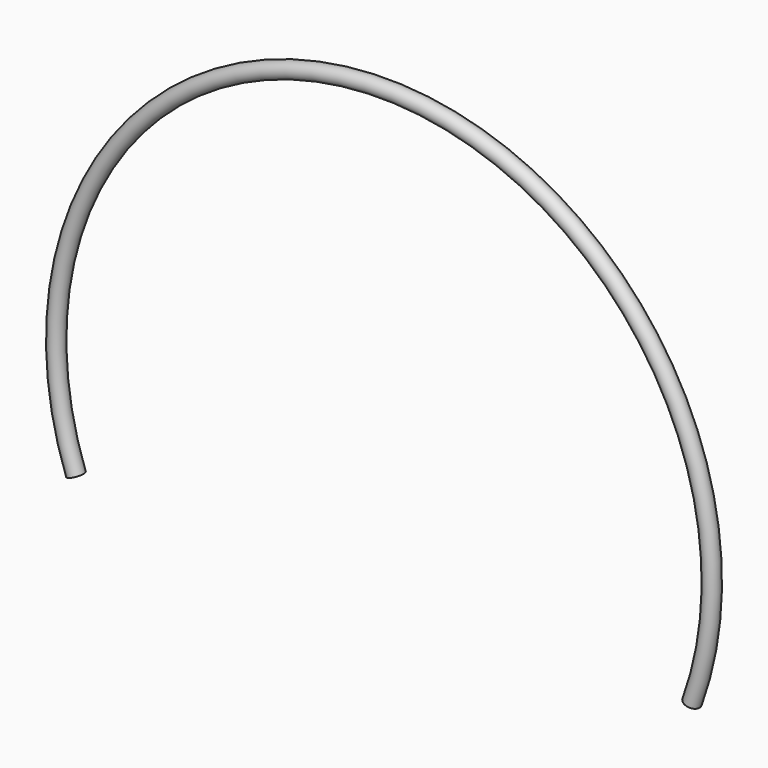
from build123d import *

# Parameters (mm, degrees)
F1_ANGLE_BACK = 200
F1_ANGLE      = 220


with BuildPart() as f1:
    # F0 (on Top) → F1 (revolve)
    with BuildSketch(Plane.XY, mode=Mode.PRIVATE) as f1_sk:
        with BuildLine():
            ThreePointArc((780.7208846222, 0), (800.1533150673, -19.4324304451), (819.5857455124, 0))
            ThreePointArc((819.5857455124, 0), (800.1533150673, 19.4324304451), (780.7208846222, 0))
        make_face()
    revolve(f1_sk.sketch.rotate(Axis((0, -4.0102191269, 0), (0, 1, 0)), -F1_ANGLE_BACK), axis=Axis((0, -4.0102191269, 0), (0, 1, 0)), revolution_arc=F1_ANGLE)


solid = f1.part
